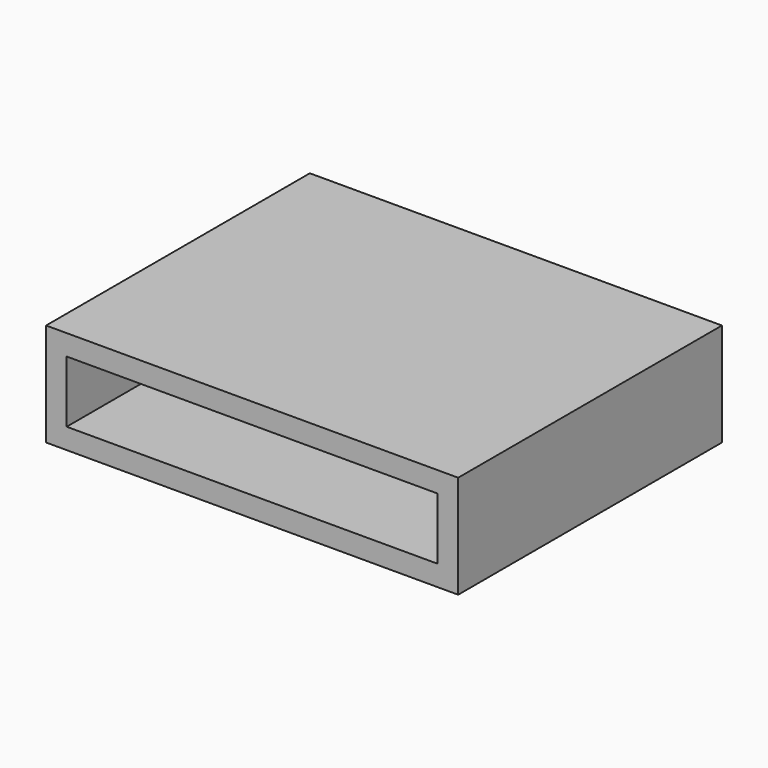
from build123d import *

# Parameters (mm, degrees)
F2_DEPTH = 80


with BuildPart() as f2:
    # F1 (on Front) → F2 (new body)
    with BuildSketch(Plane.XZ):
        Polygon((50, 12.5), (0, 12.5), (0, 7.5), (45, 7.5), (45, -7.5), (0, -7.5), (0, -12.5), (50, -12.5), align=None)
    extrude(amount=F2_DEPTH)

    # F3: F2 across plane


with BuildPart() as f2_1:
    add(f2.part)
    add(f2.part.mirror(Plane.YZ))


solid = f2_1.part
